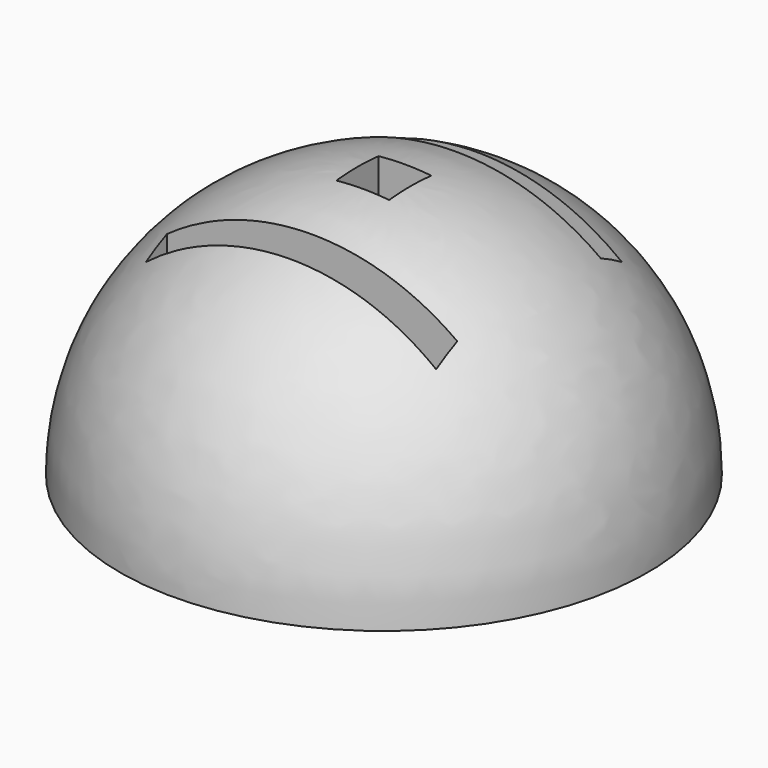
from build123d import *

# Parameters (mm, degrees)
F0_W     = 55
F0_H     = 5
F0_W_2   = 10
F0_H_2   = 10
F3_DEPTH = 100
F4_DEPTH = 30
F6_DEPTH = 20


with BuildPart() as f2:
    # F1 (on Front) → F2 (revolve)
    with BuildSketch(Plane.XZ):
        with BuildLine():
            Line((-50, 0), (0, 0))
            Line((0, 0), (0, 50))
            ThreePointArc((0, 50), (-35.355339, 35.355339), (-50, 0))
        make_face()
    revolve(axis=Axis((0, 0, 25), (0, 0, 1)))

    # F0 (on Top) → F3 (cut)
    with BuildSketch(Plane.XY):
        with Locations((0, -19.5)):
            Rectangle(F0_W, F0_H)
        with Locations((0, 19.5)):
            Rectangle(F0_W, F0_H)
        Rectangle(F0_W_2, F0_H_2)
    extrude(amount=F3_DEPTH, mode=Mode.SUBTRACT)

    # F0 (on Top) → F4 (cut)
    with BuildSketch(Plane.XY):
        Polygon((27.5, 17), (-27.5, 17), (-27.5, 5), (-27.5, -5), (-27.5, -17), (27.5, -17), (27.5, -5), (27.5, 5), align=None)
        Rectangle(F0_W_2, F0_H_2, mode=Mode.SUBTRACT)
    extrude(amount=F4_DEPTH, mode=Mode.SUBTRACT)

    # F5 (on Top) → F6 (cut)
    with BuildSketch(Plane.XY):
        with BuildLine():
            ThreePointArc((-27.5, 5), (-32.5, 0), (-27.5, -5))
            Line((-27.5, -5), (-27.5, 5))
        make_face()
        with BuildLine():
            Line((27.5, 5), (27.5, -5))
            ThreePointArc((27.5, -5), (32.5, 0), (27.5, 5))
        make_face()
    extrude(amount=F6_DEPTH, mode=Mode.SUBTRACT)


solid = f2.part
